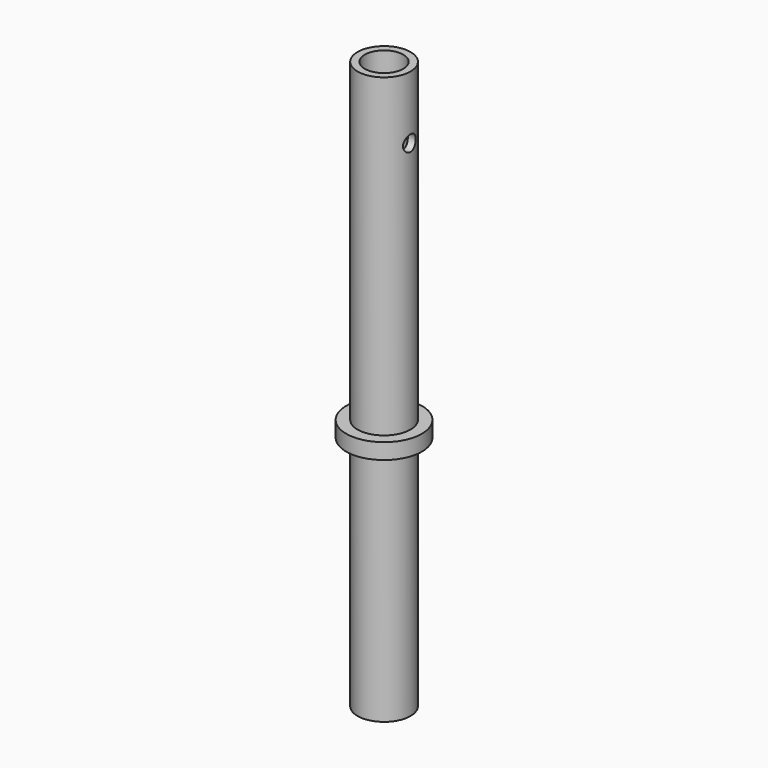
from build123d import *

# Parameters (mm, degrees)
F0_R     = 10.668
F0_R_2   = 7.747
F1_DEPTH = 95.25
F2_R     = 15.24
F2_R_2   = 10.668
F2_R_3   = 7.747
F3_DEPTH = 6.35
F4_R     = 10.668
F4_R_2   = 7.747
F5_DEPTH = 127
F6_R     = 3.175
F7_DEPTH = 12.7
F8_R     = 5.08
F9_DEPTH = 25.4


with BuildPart() as f1:
    # F0 (on Top) → F1 (new body)
    with BuildSketch(Plane.XY):
        Circle(F0_R)
        Circle(F0_R_2, mode=Mode.SUBTRACT)
    extrude(amount=F1_DEPTH)

    # F2 (on face) → F3 (join)
    with BuildSketch(Plane.XY.offset(95.25)):
        Circle(F2_R)
        Circle(F2_R_2, mode=Mode.SUBTRACT)
        Circle(F2_R_2)
        Circle(F2_R_3, mode=Mode.SUBTRACT)
    extrude(amount=F3_DEPTH)

    # F4 (on face) → F5 (join)
    with BuildSketch(Plane.XY.offset(101.6)):
        Circle(F4_R)
        Circle(F4_R_2, mode=Mode.SUBTRACT)
    extrude(amount=F5_DEPTH)

    # F6 (on Right) → F7 (cut, symmetric)
    with BuildSketch(Plane.YZ):
        with Locations((0, 203.2)):
            Circle(F6_R)
    extrude(amount=F7_DEPTH, both=True, mode=Mode.SUBTRACT)

    # F8 (on Front) → F9 (cut)
    with BuildSketch(Plane.XZ):
        with Locations((0, 114.3)):
            Circle(F8_R)
        with Locations((0, 158.75)):
            Circle(F8_R)
        with Locations((0, 203.2)):
            Circle(F8_R)
    extrude(amount=-F9_DEPTH, mode=Mode.SUBTRACT)


solid = f1.part
